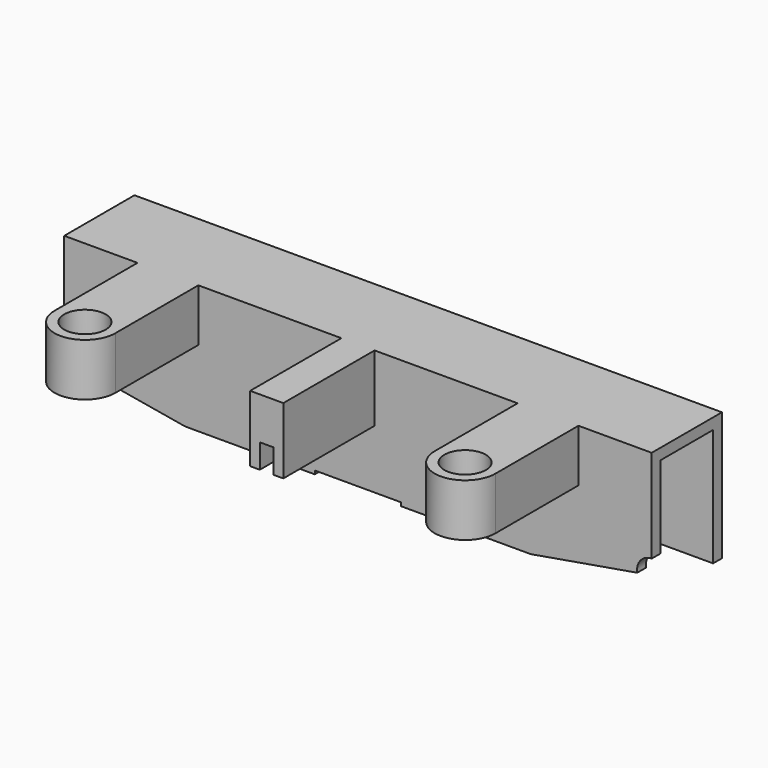
from build123d import *

# Parameters (mm, degrees)
F1_DEPTH       = 85
F3_DEPTH       = 3.2
F4_W           = 25
F4_H           = 1
F5_DEPTH       = 3.2
F6_R           = 6.5
F7_DEPTH       = 34
F9_DEPTH       = 33
F11_R          = 6
F12_DEPTH      = 5
F12_DEPTH_BACK = 10.2
F13_DEPTH      = 9.4


with BuildPart() as f1:
    # F0 (on Right) → F1 (new body, symmetric)
    with BuildSketch(Plane.YZ):
        Polygon((2.7508442084, 0), (2.7508442084, 37.2), (-22.6491557916, 37.2), (-22.6491557916, 0), (-19.4491557916, 0), (-19.4491557916, 34), (-0.4491557916, 34), (-0.4491557916, 0), align=None)
    extrude(amount=F1_DEPTH, both=True)

    # F2 (on face) → F3 (cut, through all)
    with BuildSketch(Plane(origin=(0, 2.7508442084, 0), x_dir=(-1, 0, 0), z_dir=(0, 1, 0))):
        with BuildLine():
            Line((-65, 0), (-45, 0))
            ThreePointArc((-45, 0), (-55, 10), (-65, 0))
        make_face()
        with BuildLine():
            ThreePointArc((65, 0), (55, 10), (45, 0))
            Line((45, 0), (65, 0))
        make_face()
    extrude(amount=-F3_DEPTH, mode=Mode.SUBTRACT)

    # F4 (on face) → F5 (cut, through all)
    with BuildSketch(Plane.XZ.offset(22.6491557916)):
        Polygon((-80.8183589196, 5.2831472434), (-85, 6), (-85, 0), (-50, 0), align=None)
        Polygon((80.8183589196, 5.2831472434), (50, 0), (85, 0), (85, 6), align=None)
        with Locations((0, 0.5)):
            Rectangle(F4_W, F4_H)
        with BuildLine():
            Line((-85, 10.2426406871), (-85, 6))
            Line((-85, 6), (-80.8183589196, 5.2831472434))
            ThreePointArc((-80.8183589196, 5.2831472434), (-81.7564411003, 8.7348355826), (-85, 10.2426406871))
        make_face()
        with BuildLine():
            Line((85, 6), (85, 10.2426406871))
            ThreePointArc((85, 10.2426406871), (81.7564411003, 8.7348355826), (80.8183589196, 5.2831472434))
            Line((80.8183589196, 5.2831472434), (85, 6))
        make_face()
    extrude(amount=-F5_DEPTH, mode=Mode.SUBTRACT)

    # F6 (on face) → F7 (join, through all)
    with BuildSketch(Plane(origin=(0, 0, 34), x_dir=(1, 0, 0), z_dir=(0, 0, -1))):
        with BuildLine():
            ThreePointArc((40.8905171703, 0.4491557916), (36, 15.9013383128), (31.1094828297, 0.4491557916))
            Line((31.1094828297, 0.4491557916), (40.8905171703, 0.4491557916))
        make_face()
        with Locations((36, 7.4013383128)):
            Circle(F6_R, mode=Mode.SUBTRACT)
        with BuildLine():
            Line((-40.8905171703, 0.4491557916), (-31.1094828297, 0.4491557916))
            ThreePointArc((-31.1094828297, 0.4491557916), (-36, 15.9013383128), (-40.8905171703, 0.4491557916))
        make_face()
        with Locations((-36, 7.4013383128)):
            Circle(F6_R, mode=Mode.SUBTRACT)
    extrude(amount=F7_DEPTH)

    # F8 (on face) → F9 (join)
    with BuildSketch(Plane.XZ.offset(22.6491557916)):
        Polygon((-2, 18), (-2, 25), (2, 25), (2, 18), (4.8, 18), (4.8, 27.8), (-4.8, 27.8), (-4.8, 18), align=None)
    extrude(amount=F9_DEPTH)

    # F11 (on offset) → F12 (join, two sides)
    with BuildSketch(Plane(origin=(0, 0, 27), x_dir=(1, 0, 0), z_dir=(0, 0, -1))) as f12_sk:
        with BuildLine():
            Line((-46.2, 22.6491557916), (-46.2, 52.6491557916))
            ThreePointArc((-46.2, 52.6491557916), (-55, 43.8491557916), (-63.8, 52.6491557916))
            Line((-63.8, 52.6491557916), (-63.8, 22.6491557916))
            Line((-63.8, 22.6491557916), (-46.2, 22.6491557916))
        make_face()
        with BuildLine():
            ThreePointArc((-63.8, 52.6491557916), (-55, 43.8491557916), (-46.2, 52.6491557916))
            ThreePointArc((-46.2, 52.6491557916), (-55, 61.4491557916), (-63.8, 52.6491557916))
        make_face()
        with Locations((-55, 52.6491557916)):
            Circle(F11_R, mode=Mode.SUBTRACT)
        with BuildLine():
            Line((63.8, 22.6491557916), (63.8, 52.6491557916))
            ThreePointArc((63.8, 52.6491557916), (55, 43.8491557916), (46.2, 52.6491557916))
            Line((46.2, 52.6491557916), (46.2, 22.6491557916))
            Line((46.2, 22.6491557916), (63.8, 22.6491557916))
        make_face()
        with BuildLine():
            ThreePointArc((46.2, 52.6491557916), (55, 43.8491557916), (63.8, 52.6491557916))
            ThreePointArc((63.8, 52.6491557916), (55, 61.4491557916), (46.2, 52.6491557916))
        make_face()
        with Locations((55, 52.6491557916)):
            Circle(F11_R, mode=Mode.SUBTRACT)
    extrude(amount=F12_DEPTH)
    extrude(f12_sk.sketch, amount=-F12_DEPTH_BACK)

    # F13 (add, through all): a face of the model
    f13_faces = [f1.faces().sort_by_distance(p)[0] for p in [
        (0, -39.1491557916, 27.8),
    ]]
    extrude(f13_faces, amount=F13_DEPTH)


solid = f1.part
